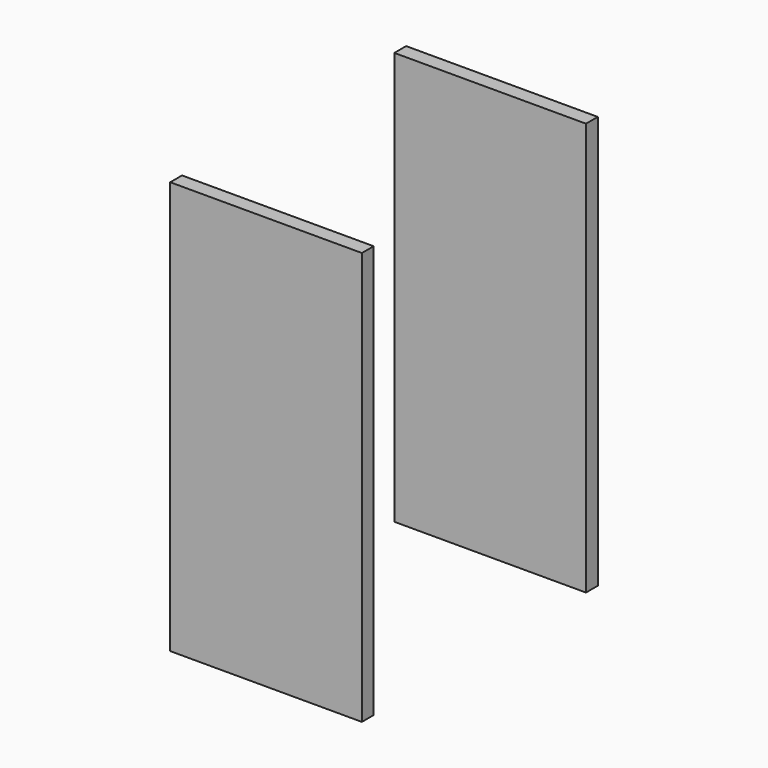
from build123d import *

# Parameters (mm, degrees)
F0_W     = 165.1
F0_H     = 355.6
F1_DEPTH = 12.7


with BuildPart() as f1:
    # F0 (on Front) → F1 (new body)
    with BuildSketch(Plane.XZ):
        Rectangle(F0_W, F0_H)
    extrude(amount=F1_DEPTH)


with BuildPart() as f2_1:
    # F2: copy of F1
    add(f1.part.moved(Location((0, 241.3, 0))))


solid = Compound([f1.part, f2_1.part])
